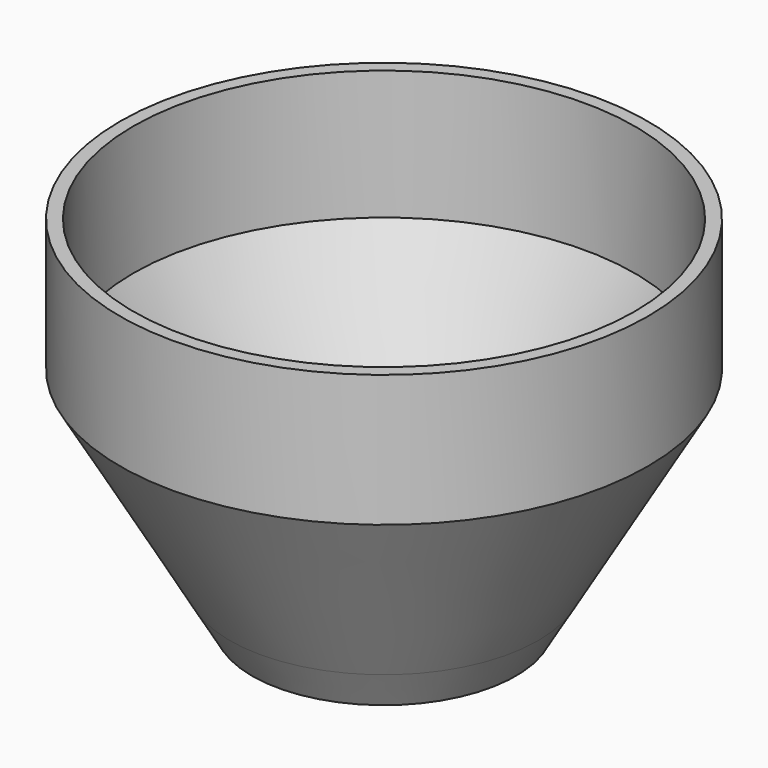
from build123d import *


with BuildPart() as f1:
    # F0 (on Front) → F1 (revolve)
    with BuildSketch(Plane.XZ):
        Polygon((-10, 0), (-9, 0), (-10, 2), align=None)
        Polygon((-11.686377, 2.906691), (-10, 0), (-10, 2), (-10.822537, 3.410457), align=None)
        Polygon((-20, 17.236307), (-11.686377, 2.906691), (-10.822537, 3.410457), (-19, 17.432883), (-19, 27.236307), (-20, 27.236307), align=None)
    revolve(axis=Axis((0, 0, 8.290515), (0, 0, 1)))


solid = f1.part
